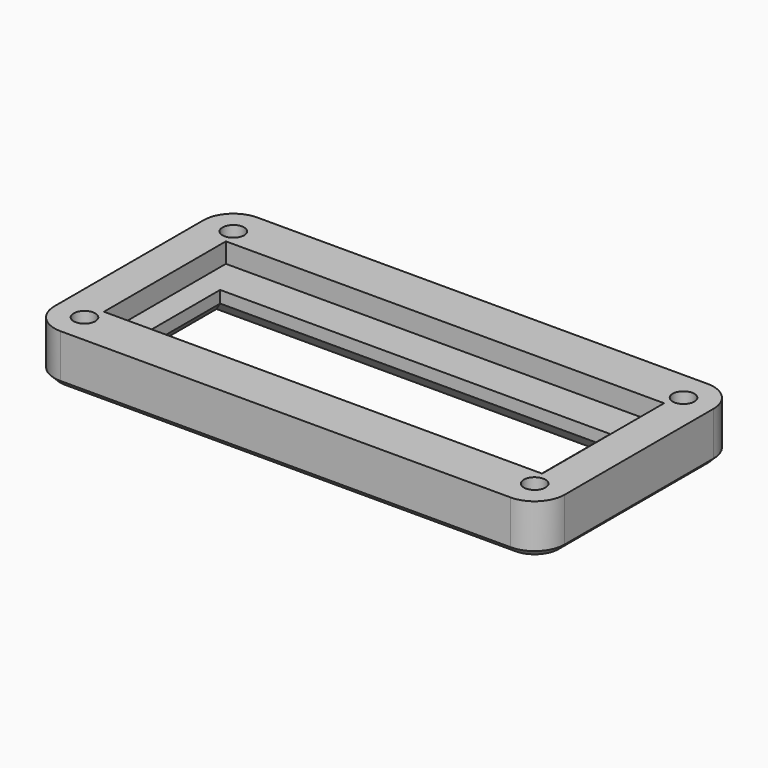
from build123d import *

# Parameters (mm, degrees)
F0_W     = 85
F0_H     = 41
F0_R     = 1.8
F0_W_2   = 73
F0_H_2   = 25.4
F1_DEPTH = 3.3
F0_W_3   = 65
F0_H_3   = 15
F2_DEPTH = 5
F3_R     = 5
F4_SIZE  = 3
F5_SIZE  = 1
F6_SIZE  = 1.5


with BuildPart() as f1:
    # F0 (on Top) → F1 (new body)
    with BuildSketch(Plane.XY):
        Rectangle(F0_W, F0_H)
        with Locations((-37.5, -15.5)):
            Circle(F0_R, mode=Mode.SUBTRACT)
        with Locations((37.5, -15.5)):
            Circle(F0_R, mode=Mode.SUBTRACT)
        with Locations((-37.5, 15.5)):
            Circle(F0_R, mode=Mode.SUBTRACT)
        Rectangle(F0_W_2, F0_H_2, mode=Mode.SUBTRACT)
        with Locations((37.5, 15.5)):
            Circle(F0_R, mode=Mode.SUBTRACT)
    extrude(amount=F1_DEPTH)

    # F0 (on Top) → F2 (join)
    with BuildSketch(Plane.XY):
        Rectangle(F0_W, F0_H)
        with Locations((-37.5, -15.5)):
            Circle(F0_R, mode=Mode.SUBTRACT)
        with Locations((37.5, -15.5)):
            Circle(F0_R, mode=Mode.SUBTRACT)
        with Locations((-37.5, 15.5)):
            Circle(F0_R, mode=Mode.SUBTRACT)
        Rectangle(F0_W_2, F0_H_2, mode=Mode.SUBTRACT)
        with Locations((37.5, 15.5)):
            Circle(F0_R, mode=Mode.SUBTRACT)
        Rectangle(F0_W_2, F0_H_2)
        with Locations((0, -1)):
            Rectangle(F0_W_3, F0_H_3, mode=Mode.SUBTRACT)
    extrude(amount=-F2_DEPTH)

    # F3
    f3_edges = [f1.edges().sort_by_distance(p)[0] for p in [
        (-42.5, 20.5, -0.85),
        (-42.5, -20.5, -0.85),
        (42.5, 20.5, -0.85),
        (42.5, -20.5, -0.85),
    ]]
    fillet(f3_edges, radius=F3_R)

    # F4
    f4_edges = [f1.edges().sort_by_distance(p)[0] for p in [
        (0, -8.5, -5),
        (-32.5, -1, -5),
        (0, 6.5, -5),
        (32.5, -1, -5),
    ]]
    chamfer(f4_edges, length=F4_SIZE)

    # F5
    f5_edges = [f1.edges().sort_by_distance(p)[0] for p in [
        (-42.5, 0, -5),
    ]]
    chamfer(f5_edges, length=F5_SIZE)

    # F6
    f6_edges = [f1.edges().sort_by_distance(p)[0] for p in [
        (-39.3, 15.5, -5),
        (-39.3, -15.5, -5),
        (35.7, -15.5, -5),
        (35.7, 15.5, -5),
    ]]
    chamfer(f6_edges, length=F6_SIZE)


solid = f1.part
